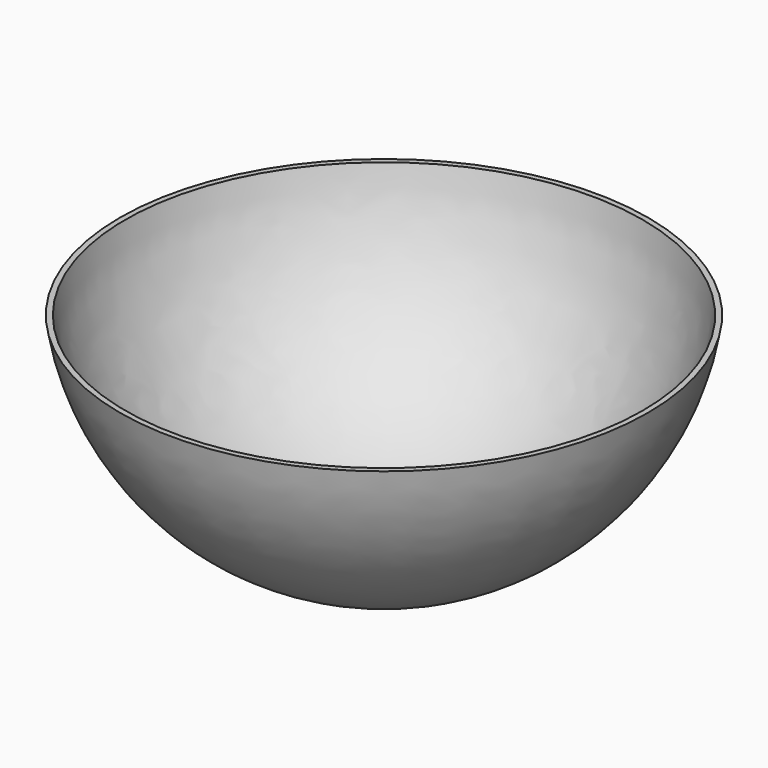
from build123d import *

# Parameters (mm, degrees)
F2_T = -0.508


with BuildPart() as f1:
    # F0 (on Front) → F1 (revolve)
    with BuildSketch(Plane.XZ):
        with BuildLine():
            Line((24.765, 21.082), (0, 21.082))
            Line((0, 21.082), (0, 0))
            ThreePointArc((0, 0), (16.26158, 5.984249), (24.765, 21.082))
        make_face()
    revolve(axis=Axis((0, 0, 10.541), (0, 0, -1)))

    # F2
    f2_openings = [f1.faces().sort_by_distance(p)[0] for p in [
        (0, 0, 21.082),
    ]]
    offset(amount=F2_T, openings=f2_openings)


solid = f1.part
